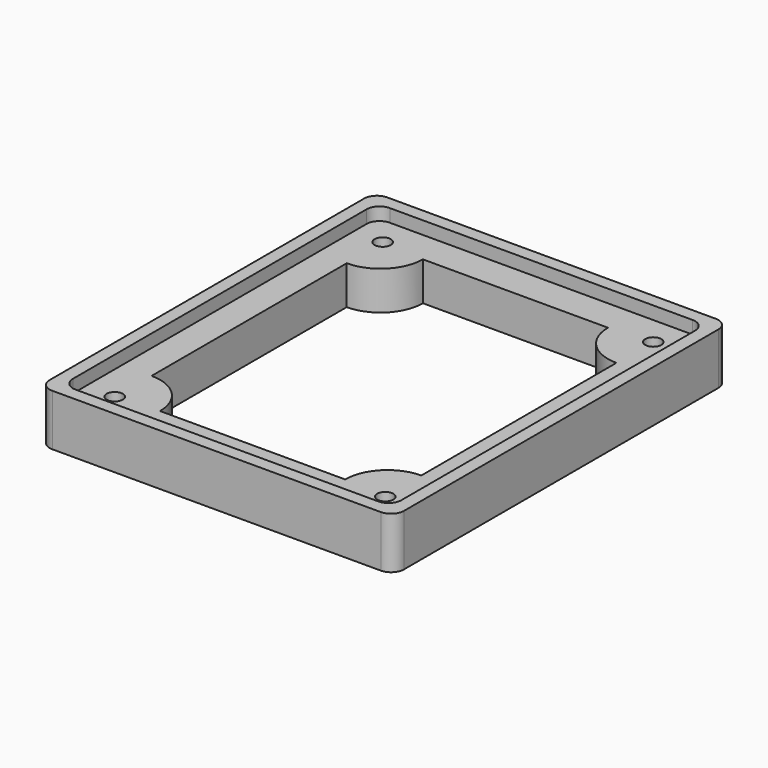
from build123d import *

# Parameters (mm, degrees)
F1_DEPTH = 6
F2_DEPTH = 8
F4_D     = 2.5
F4_DEPTH = 150
F4_TIP   = 0.7510757738
F5_R     = 2


with BuildPart() as f1:
    # F0 (on Top) → F1 (new body)
    with BuildSketch(Plane.XY):
        with BuildLine():
            Line((-20.9328360941, 18.9328360941), (-20.9328360941, 25.5))
            Line((-20.9328360941, 25.5), (-14.3656721882, 25.5))
            ThreePointArc((-14.3656721882, 25.5), (-14.9709415927, 28.2538074954), (-16.6751792541, 30.5))
            Line((-16.6751792541, 30.5), (-25.1904929341, 30.5))
            ThreePointArc((-25.1904929341, 30.5), (-25.3474833162, 30.3619473127), (-25.5, 30.2189676438))
            Line((-25.5, 30.2189676438), (-25.5, 20.7810323562))
            ThreePointArc((-25.5, 20.7810323562), (-23.3963100419, 19.4123947339), (-20.9328360941, 18.9328360941))
        make_face()
        with BuildLine():
            Line((-14.3656721882, 25.5), (-20.9328360941, 25.5))
            Line((-20.9328360941, 25.5), (-20.9328360941, 18.9328360941))
            ThreePointArc((-20.9328360941, 18.9328360941), (-16.289149963, 20.856313869), (-14.3656721882, 25.5))
        make_face()
        with BuildLine():
            ThreePointArc((-16.6751792541, 30.5), (-14.9709415927, 28.2538074954), (-14.3656721882, 25.5))
            Line((-14.3656721882, 25.5), (14.3656721882, 25.5))
            ThreePointArc((14.3656721882, 25.5), (14.9709415927, 28.2538074954), (16.6751792541, 30.5))
            Line((16.6751792541, 30.5), (-16.6751792541, 30.5))
        make_face()
        with BuildLine():
            ThreePointArc((16.6751792541, 30.5), (14.9709415927, 28.2538074954), (14.3656721882, 25.5))
            Line((14.3656721882, 25.5), (20.9328360941, 25.5))
            Line((20.9328360941, 25.5), (20.9328360941, 18.9328360941))
            ThreePointArc((20.9328360941, 18.9328360941), (23.3963100419, 19.4123947339), (25.5, 20.7810323562))
            Line((25.5, 20.7810323562), (25.5, 30.2189676438))
            ThreePointArc((25.5, 30.2189676438), (25.3474833162, 30.3619473127), (25.1904929341, 30.5))
            Line((25.1904929341, 30.5), (16.6751792541, 30.5))
        make_face()
        with BuildLine():
            Line((20.9328360941, 25.5), (14.3656721882, 25.5))
            ThreePointArc((14.3656721882, 25.5), (16.289149963, 20.856313869), (20.9328360941, 18.9328360941))
            Line((20.9328360941, 18.9328360941), (20.9328360941, 25.5))
        make_face()
        with BuildLine():
            ThreePointArc((25.5, 20.7810323562), (23.3963100419, 19.4123947339), (20.9328360941, 18.9328360941))
            Line((20.9328360941, 18.9328360941), (20.9328360941, -18.9328360941))
            ThreePointArc((20.9328360941, -18.9328360941), (23.3963100419, -19.4123947339), (25.5, -20.7810323562))
            Line((25.5, -20.7810323562), (25.5, 20.7810323562))
        make_face()
        with BuildLine():
            ThreePointArc((25.5, -20.7810323562), (23.3963100419, -19.4123947339), (20.9328360941, -18.9328360941))
            Line((20.9328360941, -18.9328360941), (20.9328360941, -25.5))
            Line((20.9328360941, -25.5), (14.3656721882, -25.5))
            ThreePointArc((14.3656721882, -25.5), (14.9709415927, -28.2538074954), (16.6751792541, -30.5))
            Line((16.6751792541, -30.5), (25.1904929341, -30.5))
            ThreePointArc((25.1904929341, -30.5), (25.3474833162, -30.3619473127), (25.5, -30.2189676438))
            Line((25.5, -30.2189676438), (25.5, -20.7810323562))
        make_face()
        with BuildLine():
            Line((20.9328360941, -25.5), (20.9328360941, -18.9328360941))
            ThreePointArc((20.9328360941, -18.9328360941), (16.289149963, -20.856313869), (14.3656721882, -25.5))
            Line((14.3656721882, -25.5), (20.9328360941, -25.5))
        make_face()
        with BuildLine():
            Line((-20.9328360941, -25.5), (-20.9328360941, -18.9328360941))
            ThreePointArc((-20.9328360941, -18.9328360941), (-23.3963100419, -19.4123947339), (-25.5, -20.7810323562))
            Line((-25.5, -20.7810323562), (-25.5, -30.2189676438))
            ThreePointArc((-25.5, -30.2189676438), (-25.3474833162, -30.3619473127), (-25.1904929341, -30.5))
            Line((-25.1904929341, -30.5), (-16.6751792541, -30.5))
            ThreePointArc((-16.6751792541, -30.5), (-14.9709415927, -28.2538074954), (-14.3656721882, -25.5))
            Line((-14.3656721882, -25.5), (-20.9328360941, -25.5))
        make_face()
        with BuildLine():
            ThreePointArc((-14.3656721882, -25.5), (-16.289149963, -20.856313869), (-20.9328360941, -18.9328360941))
            Line((-20.9328360941, -18.9328360941), (-20.9328360941, -25.5))
            Line((-20.9328360941, -25.5), (-14.3656721882, -25.5))
        make_face()
        with BuildLine():
            Line((-20.9328360941, -18.9328360941), (-20.9328360941, 18.9328360941))
            ThreePointArc((-20.9328360941, 18.9328360941), (-23.3963100419, 19.4123947339), (-25.5, 20.7810323562))
            Line((-25.5, 20.7810323562), (-25.5, -20.7810323562))
            ThreePointArc((-25.5, -20.7810323562), (-23.3963100419, -19.4123947339), (-20.9328360941, -18.9328360941))
        make_face()
        with BuildLine():
            Line((14.3656721882, -25.5), (-14.3656721882, -25.5))
            ThreePointArc((-14.3656721882, -25.5), (-14.9709415927, -28.2538074954), (-16.6751792541, -30.5))
            Line((-16.6751792541, -30.5), (16.6751792541, -30.5))
            ThreePointArc((16.6751792541, -30.5), (14.9709415927, -28.2538074954), (14.3656721882, -25.5))
        make_face()
        with BuildLine():
            Line((25.5, 30.5), (25.1904929341, 30.5))
            ThreePointArc((25.1904929341, 30.5), (25.3474833162, 30.3619473127), (25.5, 30.2189676438))
            Line((25.5, 30.2189676438), (25.5, 30.5))
        make_face()
        with BuildLine():
            ThreePointArc((-25.5, 30.2189676438), (-25.3474833162, 30.3619473127), (-25.1904929341, 30.5))
            Line((-25.1904929341, 30.5), (-25.5, 30.5))
            Line((-25.5, 30.5), (-25.5, 30.2189676438))
        make_face()
        with BuildLine():
            ThreePointArc((-25.1904929341, -30.5), (-25.3474833162, -30.3619473127), (-25.5, -30.2189676438))
            Line((-25.5, -30.2189676438), (-25.5, -30.5))
            Line((-25.5, -30.5), (-25.1904929341, -30.5))
        make_face()
        with BuildLine():
            Line((25.5, -30.5), (25.5, -30.2189676438))
            ThreePointArc((25.5, -30.2189676438), (25.3474833162, -30.3619473127), (25.1904929341, -30.5))
            Line((25.1904929341, -30.5), (25.5, -30.5))
        make_face()
    extrude(amount=F1_DEPTH)

    # F0 (on Top) → F2 (join)
    with BuildSketch(Plane.XY):
        with BuildLine():
            ThreePointArc((-25.1904929341, 30.5), (-20.9328360941, 32.0671639059), (-16.6751792541, 30.5))
            Line((-16.6751792541, 30.5), (16.6751792541, 30.5))
            ThreePointArc((16.6751792541, 30.5), (20.9328360941, 32.0671639059), (25.1904929341, 30.5))
            Line((25.1904929341, 30.5), (25.5, 30.5))
            Line((25.5, 30.5), (25.5, 30.2189676438))
            ThreePointArc((25.5, 30.2189676438), (26.9793621927, 28.062647831), (27.5, 25.5))
            Line((27.5, 25.5), (27.5, 32.5))
            Line((27.5, 32.5), (-27.5, 32.5))
            Line((-27.5, 32.5), (-27.5, 25.5))
            ThreePointArc((-27.5, 25.5), (-26.9793621927, 28.062647831), (-25.5, 30.2189676438))
            Line((-25.5, 30.2189676438), (-25.5, 30.5))
            Line((-25.5, 30.5), (-25.1904929341, 30.5))
        make_face()
        with BuildLine():
            Line((-25.1904929341, 30.5), (-16.6751792541, 30.5))
            ThreePointArc((-16.6751792541, 30.5), (-20.9328360941, 32.0671639059), (-25.1904929341, 30.5))
        make_face()
        with BuildLine():
            ThreePointArc((-27.5, 25.5), (-26.9793621927, 22.937352169), (-25.5, 20.7810323562))
            Line((-25.5, 20.7810323562), (-25.5, 30.2189676438))
            ThreePointArc((-25.5, 30.2189676438), (-26.9793621927, 28.062647831), (-27.5, 25.5))
        make_face()
        with BuildLine():
            Line((-25.5, -20.7810323562), (-25.5, 20.7810323562))
            ThreePointArc((-25.5, 20.7810323562), (-26.9793621927, 22.937352169), (-27.5, 25.5))
            Line((-27.5, 25.5), (-27.5, -25.5))
            ThreePointArc((-27.5, -25.5), (-26.9793621927, -22.937352169), (-25.5, -20.7810323562))
        make_face()
        with BuildLine():
            Line((-25.5, -30.2189676438), (-25.5, -20.7810323562))
            ThreePointArc((-25.5, -20.7810323562), (-26.9793621927, -22.937352169), (-27.5, -25.5))
            ThreePointArc((-27.5, -25.5), (-26.9793621927, -28.062647831), (-25.5, -30.2189676438))
        make_face()
        with BuildLine():
            Line((16.6751792541, -30.5), (-16.6751792541, -30.5))
            ThreePointArc((-16.6751792541, -30.5), (-20.9328360941, -32.0671639059), (-25.1904929341, -30.5))
            Line((-25.1904929341, -30.5), (-25.5, -30.5))
            Line((-25.5, -30.5), (-25.5, -30.2189676438))
            ThreePointArc((-25.5, -30.2189676438), (-26.9793621927, -28.062647831), (-27.5, -25.5))
            Line((-27.5, -25.5), (-27.5, -32.5))
            Line((-27.5, -32.5), (27.5, -32.5))
            Line((27.5, -32.5), (27.5, -25.5))
            ThreePointArc((27.5, -25.5), (26.9793621927, -28.062647831), (25.5, -30.2189676438))
            Line((25.5, -30.2189676438), (25.5, -30.5))
            Line((25.5, -30.5), (25.1904929341, -30.5))
            ThreePointArc((25.1904929341, -30.5), (20.9328360941, -32.0671639059), (16.6751792541, -30.5))
        make_face()
        with BuildLine():
            ThreePointArc((-25.1904929341, -30.5), (-20.9328360941, -32.0671639059), (-16.6751792541, -30.5))
            Line((-16.6751792541, -30.5), (-25.1904929341, -30.5))
        make_face()
        with BuildLine():
            Line((25.1904929341, -30.5), (16.6751792541, -30.5))
            ThreePointArc((16.6751792541, -30.5), (20.9328360941, -32.0671639059), (25.1904929341, -30.5))
        make_face()
        with BuildLine():
            ThreePointArc((27.5, -25.5), (26.9793621927, -22.937352169), (25.5, -20.7810323562))
            Line((25.5, -20.7810323562), (25.5, -30.2189676438))
            ThreePointArc((25.5, -30.2189676438), (26.9793621927, -28.062647831), (27.5, -25.5))
        make_face()
        with BuildLine():
            ThreePointArc((25.1904929341, 30.5), (20.9328360941, 32.0671639059), (16.6751792541, 30.5))
            Line((16.6751792541, 30.5), (25.1904929341, 30.5))
        make_face()
        with BuildLine():
            Line((25.5, 30.2189676438), (25.5, 20.7810323562))
            ThreePointArc((25.5, 20.7810323562), (26.9793621927, 22.937352169), (27.5, 25.5))
            ThreePointArc((27.5, 25.5), (26.9793621927, 28.062647831), (25.5, 30.2189676438))
        make_face()
        with BuildLine():
            ThreePointArc((27.5, 25.5), (26.9793621927, 22.937352169), (25.5, 20.7810323562))
            Line((25.5, 20.7810323562), (25.5, -20.7810323562))
            ThreePointArc((25.5, -20.7810323562), (26.9793621927, -22.937352169), (27.5, -25.5))
            Line((27.5, -25.5), (27.5, 25.5))
        make_face()
    extrude(amount=F2_DEPTH)

    # F4
    with Locations(Plane.XY.offset(6)):
        with Locations((-21, 26), (21, 26), (21, -26), (-21, -26)):
            Hole(F4_D / 2, depth=F4_DEPTH)
            with Locations((0, 0, -(F4_DEPTH + F4_TIP / 2))):  # 118° drill point
                Cone(0, F4_D / 2, F4_TIP, mode=Mode.SUBTRACT)

    # F5
    f5_edges = [f1.edges().sort_by_distance(p)[0] for p in [
        (25.5, 30.5, 7),
        (25.5, -30.5, 7),
        (-25.5, -30.5, 7),
        (-25.5, 30.5, 7),
        (27.5, 32.5, 4),
        (27.5, -32.5, 4),
        (-27.5, -32.5, 4),
        (-27.5, 32.5, 4),
    ]]
    fillet(f5_edges, radius=F5_R)


solid = f1.part
